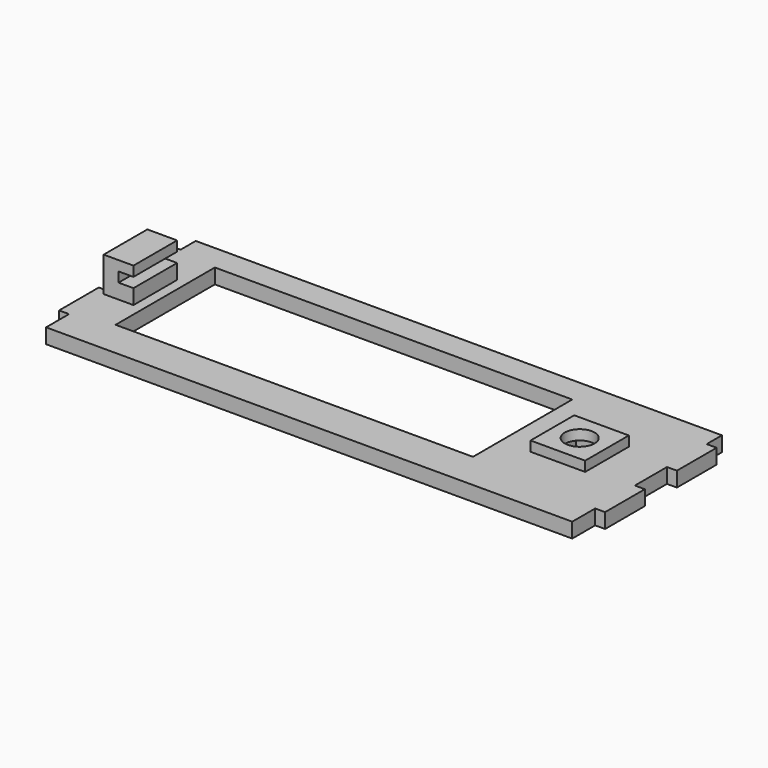
from build123d import *

# Parameters (mm, degrees)
PAD_DEPTH       = 3
SKETCH001_W     = 7
SKETCH001_H     = 7
POCKET_DEPTH    = 3
SKETCH002_W     = 11
SKETCH002_H     = 11
SKETCH002_R     = 3
PAD001_DEPTH    = 2
SKETCH003_W     = 72
SKETCH003_H     = 25
POCKET001_DEPTH = 3
SKETCH004_W     = 6
SKETCH004_H     = 11
PAD002_DEPTH    = 7
SKETCH005_W     = 11
SKETCH005_H     = 2
POCKET002_DEPTH = 3


with BuildPart() as part:
    # Sketch → Pad (new body)
    with BuildSketch(Plane.XY):
        Polygon((0, 37.690599), (106, 37.690599), (106, 33.856406), (108, 33.856406), (108, 23.856406), (106, 23.856406), (106, 15.773503), (108, 15.773503), (108, 5.773503), (106, 5.773503), (106, 0), (0, 0), (0, 5.773503), (-2, 5.773503), (-2, 15.773503), (0, 15.773503), (0, 23.856406), (-2, 23.856406), (-2, 33.856406), (0, 33.856406), align=None)
    extrude(amount=-PAD_DEPTH)

    # Sketch001 → Pocket (cut)
    with BuildSketch(Plane.XY):
        with Locations((91.5, 20)):
            Rectangle(SKETCH001_W, SKETCH001_H)
    extrude(amount=-POCKET_DEPTH, mode=Mode.SUBTRACT)

    # Sketch002 → Pad001 (join)
    with BuildSketch(Plane.XY):
        with Locations((91.5, 20)):
            Rectangle(SKETCH002_W, SKETCH002_H)
        with Locations((91.5, 20)):
            Circle(SKETCH002_R, mode=Mode.SUBTRACT)
    extrude(amount=PAD001_DEPTH)

    # Sketch003 → Pocket001 (cut)
    with BuildSketch(Plane.XY):
        with Locations((44, 20)):
            Rectangle(SKETCH003_W, SKETCH003_H)
    extrude(amount=-POCKET001_DEPTH, mode=Mode.SUBTRACT)

    # Sketch004 → Pad002 (join)
    with BuildSketch(Plane.XY):
        with Locations((3, 20)):
            Rectangle(SKETCH004_W, SKETCH004_H)
    extrude(amount=PAD002_DEPTH)

    # Sketch005 (on Face12 of Pad002) → Pocket002 (cut)
    with BuildSketch(Plane.YZ.offset(6)):
        with Locations((20, 4)):
            Rectangle(SKETCH005_W, SKETCH005_H)
    extrude(amount=-POCKET002_DEPTH, mode=Mode.SUBTRACT)


solid = part.part
